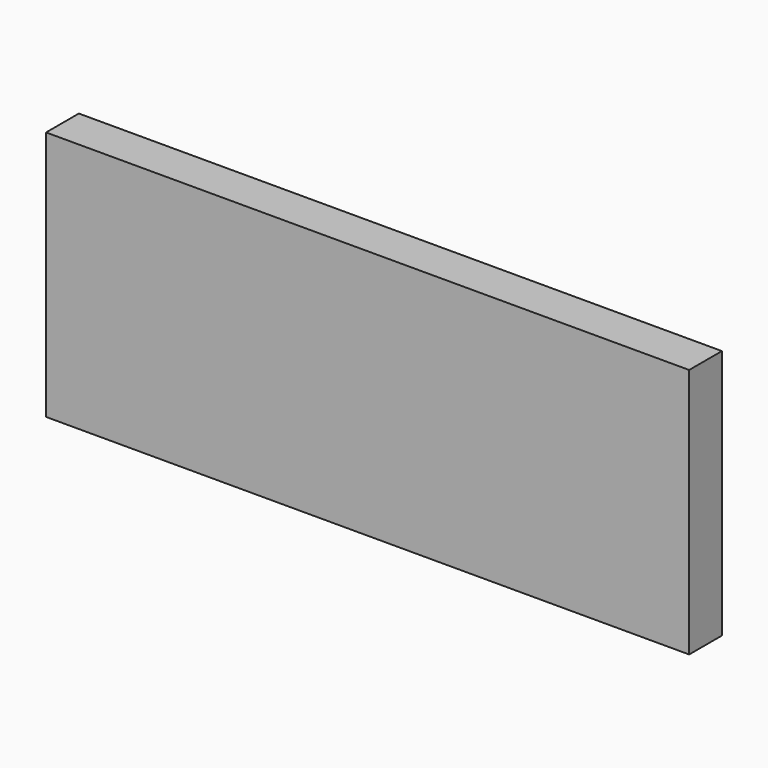
from build123d import *

# Parameters (mm, degrees)
F1_DEPTH = 12.7
F0_R     = 19.05
F2_DEPTH = 22.86
F3_SIZE  = 6.35
F5_START = 8.382
F4_W     = 267.1855464578
F4_H     = 104.0655337274
F5_DEPTH = 17.018
F7_R     = 41.3878634572
F7_R_2   = 19.0358650016
F8_DEPTH = 14.478


with BuildPart() as f1:
    # F0 (on Front) → F1 (new body)
    with BuildSketch(Plane.XZ):
        with BuildLine():
            ThreePointArc((3.6852678571, 41.1101499124), (30.460918041, 27.8524343119), (41.275, 0))
            ThreePointArc((41.275, 0), (30.460918041, -27.8524343119), (3.6852678571, -41.1101499124))
            Line((3.6852678571, -41.1101499124), (180.0678571429, -25.2985537923))
            ThreePointArc((180.0678571429, -25.2985537923), (152.4, 0), (180.0678571429, 25.2985537923))
            Line((180.0678571429, 25.2985537923), (3.6852678571, 41.1101499124))
        make_face()
    extrude(amount=F1_DEPTH)

    # F0 (on Front) → F2 (join)
    with BuildSketch(Plane.XZ):
        with BuildLine():
            ThreePointArc((3.6852678571, -41.1101499124), (30.460918041, -27.8524343119), (41.275, 0))
            ThreePointArc((41.275, 0), (30.460918041, 27.8524343119), (3.6852678571, 41.1101499124))
            ThreePointArc((3.6852678571, 41.1101499124), (-41.275, 0), (3.6852678571, -41.1101499124))
        make_face()
        Circle(F0_R, mode=Mode.SUBTRACT)
        with BuildLine():
            ThreePointArc((203.2, 0), (196.5451803329, 17.1399595765), (180.0678571429, 25.2985537923))
            ThreePointArc((180.0678571429, 25.2985537923), (152.4, 0), (180.0678571429, -25.2985537923))
            ThreePointArc((180.0678571429, -25.2985537923), (196.5451803329, -17.1399595765), (203.2, 0))
        make_face()
        with Locations((177.8, 0)):
            Circle(F0_R, mode=Mode.SUBTRACT)
    extrude(amount=F2_DEPTH)

    # F3
    f3_edges = [f1.edges().sort_by_distance(p)[0] for p in [
        (-41.275, -22.86, 0),
    ]]
    chamfer(f3_edges, length=F3_SIZE)


with BuildPart() as f5:
    # F4 (on Front) → F5 (new body)
    with BuildSketch(Plane.XZ.offset(F5_START)):
        with Locations((79.4894956052, -0.9902436286)):
            Rectangle(F4_W, F4_H)
    extrude(amount=F5_DEPTH)

    # F6: cut F1
    add(f1.part, mode=Mode.SUBTRACT)

    # F7 (on face) → F8 (cut, through all)
    with BuildSketch(Plane(origin=(0, -8.382, 0), x_dir=(-1, 0, 0), z_dir=(0, 1, 0))):
        Circle(F7_R)
        Circle(F7_R_2, mode=Mode.SUBTRACT)
    extrude(amount=-F8_DEPTH, mode=Mode.SUBTRACT)


solid = Compound([f1.part, f5.part])
